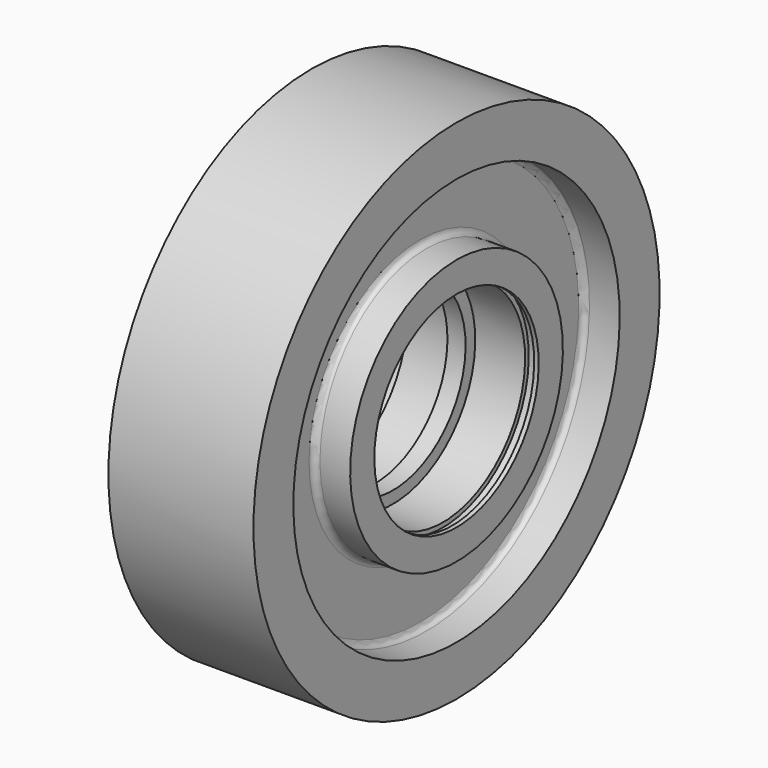
from build123d import *


with BuildPart() as f1:
    # F0 (on Front) → F1 (revolve)
    with BuildSketch(Plane.XZ):
        with BuildLine():
            Line((0, 76.2), (0, 213.36))
            Line((0, 213.36), (-60.96, 213.36))
            Line((-60.96, 213.36), (-60.96, 171.45))
            Line((-60.96, 171.45), (-35.56, 171.45))
            ThreePointArc((-35.56, 171.45), (-31.967898, 169.962102), (-30.48, 166.37))
            Line((-30.48, 166.37), (-30.48, 116.84))
            ThreePointArc((-30.48, 116.84), (-31.967898, 113.247898), (-35.56, 111.76))
            Line((-35.56, 111.76), (-60.96, 111.76))
            Line((-60.96, 111.76), (-60.96, 86.36))
            Line((-60.96, 86.36), (-57.15, 86.36))
            Line((-57.15, 86.36), (-57.15, 90.17))
            Line((-57.15, 90.17), (-49.53, 90.17))
            Line((-49.53, 90.17), (-49.53, 86.36))
            Line((-49.53, 86.36), (-7.62, 86.36))
            Line((-7.62, 86.36), (-7.62, 76.2))
            Line((-7.62, 76.2), (0, 76.2))
        make_face()
        with BuildLine():
            Line((60.96, 213.36), (0, 213.36))
            Line((0, 213.36), (0, 76.2))
            Line((0, 76.2), (7.62, 76.2))
            Line((7.62, 76.2), (7.62, 86.36))
            Line((7.62, 86.36), (49.53, 86.36))
            Line((49.53, 86.36), (49.53, 90.17))
            Line((49.53, 90.17), (57.15, 90.17))
            Line((57.15, 90.17), (57.15, 86.36))
            Line((57.15, 86.36), (60.96, 86.36))
            Line((60.96, 86.36), (60.96, 111.76))
            Line((60.96, 111.76), (35.56, 111.76))
            ThreePointArc((35.56, 111.76), (31.967898, 113.247898), (30.48, 116.84))
            Line((30.48, 116.84), (30.48, 166.37))
            ThreePointArc((30.48, 166.37), (31.967898, 169.962102), (35.56, 171.45))
            Line((35.56, 171.45), (60.96, 171.45))
            Line((60.96, 171.45), (60.96, 213.36))
        make_face()
    revolve(axis=Axis((-30.48, 0, 0), (-1, 0, 0)))


solid = f1.part
